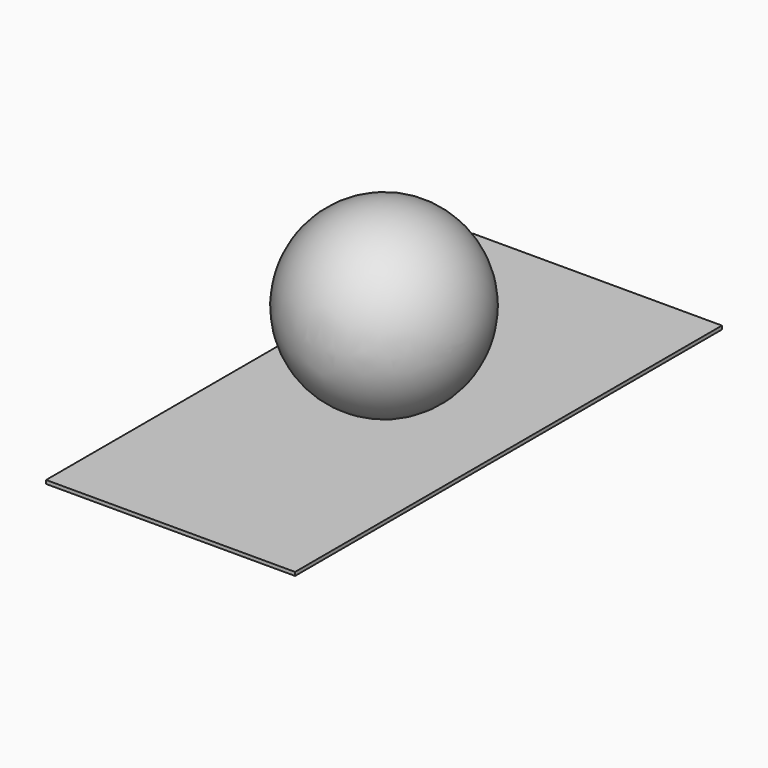
from build123d import *

# Parameters (mm, degrees)
F3_W     = 70
F3_H     = 150
F4_DEPTH = 1


with BuildPart() as f1:
    # F0 (on Top) → F1 (revolve)
    with BuildSketch(Plane.XY):
        with BuildLine():
            Line((25, 0), (-25, 0))
            ThreePointArc((-25, 0), (0, -25), (25, 0))
        make_face()
    revolve(axis=Axis((-12.6515265554, 0, 0), (-1, 0, 0)))

    # F3 (on offset) → F4 (join)
    with BuildSketch(Plane.XY.offset(-25)):
        Rectangle(F3_W, F3_H)
    extrude(amount=F4_DEPTH)


solid = f1.part
